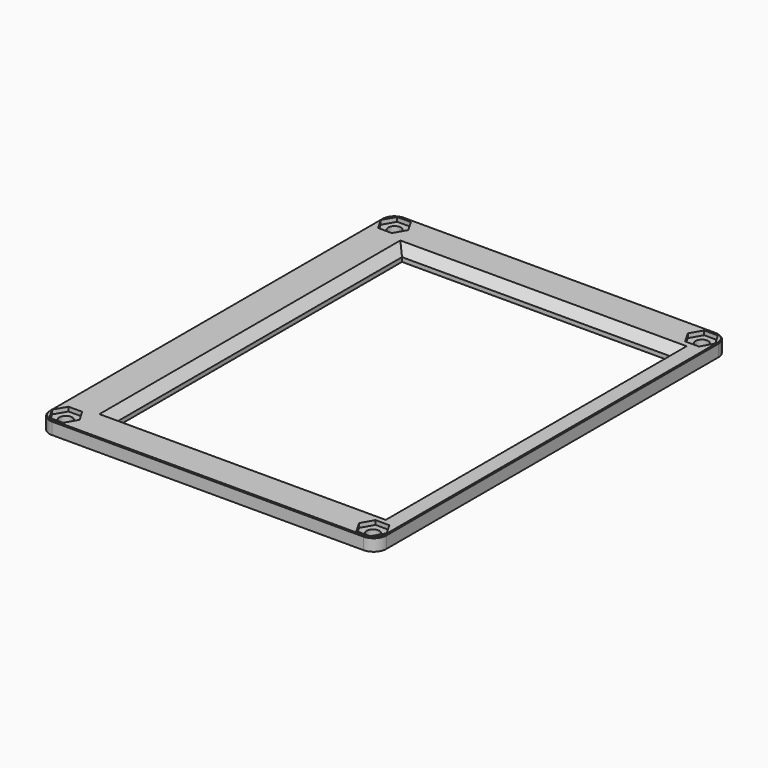
from build123d import *

# Parameters (mm, degrees)
SKETCH005_W          = 79.5
SKETCH005_H          = 104
SKETCH005_W_2        = 63.6
SKETCH005_H_2        = 84.8
PAD003_DEPTH         = 3
POCKET_DEPTH         = 2
POCKET001_DEPTH      = 2
POCKET002_DEPTH      = 2
POCKET003_DEPTH      = 2
SKETCH009_R          = 1.5
POCKET004_DEPTH      = 0.001
POCKET004_DEPTH_BACK = 3.001
FILLET001_R          = 3
CHAMFER_SIZE         = 2
CHAMFER001_SIZE      = 0.2


with BuildPart() as part:
    # Sketch005 → Pad003 (new body)
    with BuildSketch(Plane.XY):
        with Locations((-2.25, 6.5)):
            Rectangle(SKETCH005_W, SKETCH005_H)
        with Locations((-0.043942, 6.41066)):
            Rectangle(SKETCH005_W_2, SKETCH005_H_2, mode=Mode.SUBTRACT)
    extrude(amount=PAD003_DEPTH)

    # Sketch003 → Pocket (cut)
    with BuildSketch(Plane.XY.offset(2)):
        Polygon((-35.284015, 54.943331), (-36.909015, 57.757914), (-40.159015, 57.757914), (-41.784015, 54.943331), (-40.159015, 52.128748), (-36.909015, 52.128748), align=None)
    extrude(amount=POCKET_DEPTH, mode=Mode.SUBTRACT)

    # Sketch007 → Pocket001 (cut)
    with BuildSketch(Plane.XY.offset(2)):
        Polygon((30.715985, -42.056669), (32.340985, -44.871252), (35.590985, -44.871252), (37.215985, -42.056669), (35.590985, -39.242086), (32.340985, -39.242086), align=None)
    extrude(amount=POCKET001_DEPTH, mode=Mode.SUBTRACT)

    # Sketch008 → Pocket002 (cut)
    with BuildSketch(Plane.XY.offset(2)):
        Polygon((32.340985, 52.128748), (35.590985, 52.128748), (37.215985, 54.943331), (35.590985, 57.757914), (32.340985, 57.757914), (30.715985, 54.943331), align=None)
    extrude(amount=POCKET002_DEPTH, mode=Mode.SUBTRACT)

    # Sketch006 → Pocket003 (cut)
    with BuildSketch(Plane.XY.offset(2)):
        Polygon((-35.284015, -42.056669), (-36.909015, -39.242086), (-40.159015, -39.242086), (-41.784015, -42.056669), (-40.159015, -44.871252), (-36.909015, -44.871252), align=None)
    extrude(amount=POCKET003_DEPTH, mode=Mode.SUBTRACT)

    # Sketch009 → Pocket004 (cut, two sides)
    with BuildSketch(Plane.XY) as pocket004_sk:
        with Locations((-38.515098, -42.092489)):
            Circle(SKETCH009_R)
        with Locations((34.02781, -42.092489)):
            Circle(SKETCH009_R)
        with Locations((34.02781, 54.9676)):
            Circle(SKETCH009_R)
        with Locations((-38.515098, 54.9676)):
            Circle(SKETCH009_R)
    extrude(amount=-POCKET004_DEPTH, mode=Mode.SUBTRACT)
    extrude(pocket004_sk.sketch, amount=POCKET004_DEPTH_BACK, mode=Mode.SUBTRACT)

    # Fillet001
    fillet001_edges = [part.edges().sort_by_distance(p)[0] for p in [
        (-42, 58.5, 1.5),
        (-42, -45.5, 1.5),
        (37.5, -45.5, 1.5),
        (37.5, 58.5, 1.5),
    ]]
    fillet(fillet001_edges, radius=FILLET001_R)

    # Chamfer
    chamfer_edges = [part.edges().sort_by_distance(p)[0] for p in [
        (-0.043942, -35.98934, 3),
        (31.756058, 6.41066, 3),
        (-31.843942, 6.41066, 3),
        (-0.043942, 48.81066, 3),
    ]]
    chamfer(chamfer_edges, length=CHAMFER_SIZE)

    # Chamfer001
    chamfer001_edges = [part.edges().sort_by_distance(p)[0] for p in [
        (-42, 6.5, 3),
        (-2.25, 58.5, 3),
        (37.5, 6.5, 3),
        (-2.25, -45.5, 3),
        (-41.12132, -44.62132, 3),
        (36.62132, 57.62132, 3),
        (-41.12132, 57.62132, 3),
        (36.62132, -44.62132, 3),
    ]]
    chamfer(chamfer001_edges, length=CHAMFER001_SIZE)


solid = part.part
